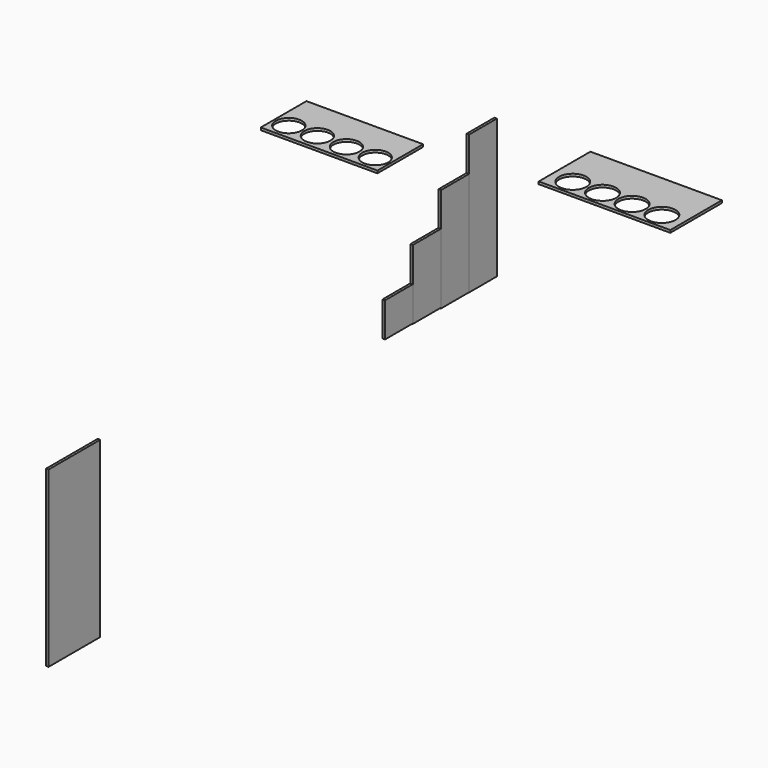
from build123d import *

# Parameters (mm, degrees)
F1_DEPTH  = 6.35
F6_W      = 165.1
F6_H      = 444.5
F7_DEPTH  = 6.35
F5_W      = 88.9
F5_H      = 88.2889601485
F4_W      = 88.9000443962
F4_H      = 177.8
F3_W      = 89.3805209971
F3_H      = 266.7
F2_W      = 88.9
F2_H      = 355.6
F8_W      = 298.45
F8_H      = 146.05
F10_DEPTH = 6.35
F11_D     = 66.675
F11_DEPTH = 12.7
F11_TIP   = 20.0311908868


with BuildPart() as f1:
    # F0 (on Top) → F1 (new body)
    with BuildSketch(Plane.XY):
        Polygon((336.55, 0), (0, 0), (0, -82.55), (53.975, -82.55), (130.175, -82.55), (206.375, -82.55), (282.575, -82.55), (336.55, -82.55), align=None)
        with BuildLine():
            Line((53.975, -82.55), (0, -82.55))
            Line((0, -82.55), (0, -123.825))
            Line((0, -123.825), (19.05, -123.825))
            ThreePointArc((19.05, -123.825), (29.2792956671, -99.1292956671), (53.975, -88.9))
            Line((53.975, -88.9), (53.975, -82.55))
        make_face()
        with BuildLine():
            Line((130.175, -82.55), (53.975, -82.55))
            Line((53.975, -82.55), (53.975, -88.9))
            ThreePointArc((53.975, -88.9), (78.6707043329, -99.1292956671), (88.9, -123.825))
            Line((88.9, -123.825), (95.25, -123.825))
            ThreePointArc((95.25, -123.825), (105.4792956671, -99.1292956671), (130.175, -88.9))
            Line((130.175, -88.9), (130.175, -82.55))
        make_face()
        with BuildLine():
            Line((206.375, -82.55), (130.175, -82.55))
            Line((130.175, -82.55), (130.175, -88.9))
            ThreePointArc((130.175, -88.9), (154.8707043329, -99.1292956671), (165.1, -123.825))
            ThreePointArc((165.1, -123.825), (165.0979670337, -124.2018269662), (165.0918683715, -124.5786100626))
            Line((165.0918683715, -124.5786100626), (171.45, -124.5786100626))
            ThreePointArc((171.45, -124.5786100626), (181.6792956671, -99.8829057297), (206.375, -89.6536100626))
            Line((206.375, -89.6536100626), (206.375, -82.55))
        make_face()
        with BuildLine():
            Line((282.575, -89.6536100626), (282.575, -82.55))
            Line((282.575, -82.55), (206.375, -82.55))
            Line((206.375, -82.55), (206.375, -89.6536100626))
            ThreePointArc((206.375, -89.6536100626), (231.0707043329, -99.8829057297), (241.3, -124.5786100626))
            Line((241.3, -124.5786100626), (247.65, -124.5786100626))
            ThreePointArc((247.65, -124.5786100626), (257.8792956671, -99.8829057297), (282.575, -89.6536100626))
        make_face()
        with BuildLine():
            Line((336.55, -165.1), (336.55, -82.55))
            Line((336.55, -82.55), (282.575, -82.55))
            Line((282.575, -82.55), (282.575, -89.6536100626))
            ThreePointArc((282.575, -89.6536100626), (307.2707043329, -99.8829057297), (317.5, -124.5786100626))
            ThreePointArc((317.5, -124.5786100626), (282.575, -159.5036100626), (247.65, -124.5786100626))
            Line((247.65, -124.5786100626), (241.3, -124.5786100626))
            ThreePointArc((241.3, -124.5786100626), (206.375, -159.5036100626), (171.45, -124.5786100626))
            Line((171.45, -124.5786100626), (165.0918683715, -124.5786100626))
            ThreePointArc((165.0918683715, -124.5786100626), (129.7981730338, -158.7479670337), (95.25, -123.825))
            Line((95.25, -123.825), (88.9, -123.825))
            ThreePointArc((88.9, -123.825), (53.975, -158.75), (19.05, -123.825))
            Line((19.05, -123.825), (0, -123.825))
            Line((0, -123.825), (0, -165.1))
            Line((0, -165.1), (336.55, -165.1))
        make_face()
    extrude(amount=F1_DEPTH)


with BuildPart() as f7:
    # F6 (on Right) → F7 (new body)
    with BuildSketch(Plane.YZ):
        with Locations((-1658.1222646861, -222.25)):
            Rectangle(F6_W, F6_H)
    extrude(amount=F7_DEPTH)


with BuildPart() as f7b:
    # F5 (on Right) → F7, piece 2 (new body)
    with BuildSketch(Plane.YZ):
        with Locations((-620.298653841, -100.3352551937)):
            Rectangle(F5_W, F5_H)
    extrude(amount=F7_DEPTH)


with BuildPart() as f7c:
    # F4 (on Right) → F7, piece 3 (new body)
    with BuildSketch(Plane.YZ):
        with Locations((-530.7833552361, -56.7137598991)):
            Rectangle(F4_W, F4_H)
    extrude(amount=F7_DEPTH)


with BuildPart() as f7d:
    # F3 (on Right) → F7, piece 4 (new body)
    with BuildSketch(Plane.YZ):
        with Locations((-441.2680566311, -14.121811837)):
            Rectangle(F3_W, F3_H)
    extrude(amount=F7_DEPTH)


with BuildPart() as f7e:
    # F2 (on Right) → F7, piece 5 (new body)
    with BuildSketch(Plane.YZ):
        with Locations((-351.7527729273, 29.9040375065)):
            Rectangle(F2_W, F2_H)
    extrude(amount=F7_DEPTH)


with BuildPart() as f10:
    # F8 (on Top) → F10 (new body)
    with BuildSketch(Plane.XY):
        with Locations((-430.3200393915, -256.6215630923)):
            Rectangle(F8_W, F8_H)
    extrude(amount=F10_DEPTH)

    # F11
    with Locations(Plane(origin=(0, 0, 0), x_dir=(1, 0, 0), z_dir=(0, 0, -1))):
        with Locations((-540.8641432916, 288.3545416575), (-468.6728927806, 287.1544628373), (-393.6898868663, 288.0571330201), (-319.6430068752, 288.2440111145)):
            Hole(F11_D / 2, depth=F11_DEPTH)
            with Locations((0, 0, -(F11_DEPTH + F11_TIP / 2))):  # 118° drill point
                Cone(0, F11_D / 2, F11_TIP, mode=Mode.SUBTRACT)


solid = Compound([f1.part, f7.part, f7b.part, f7c.part, f7d.part, f7e.part, f10.part])
